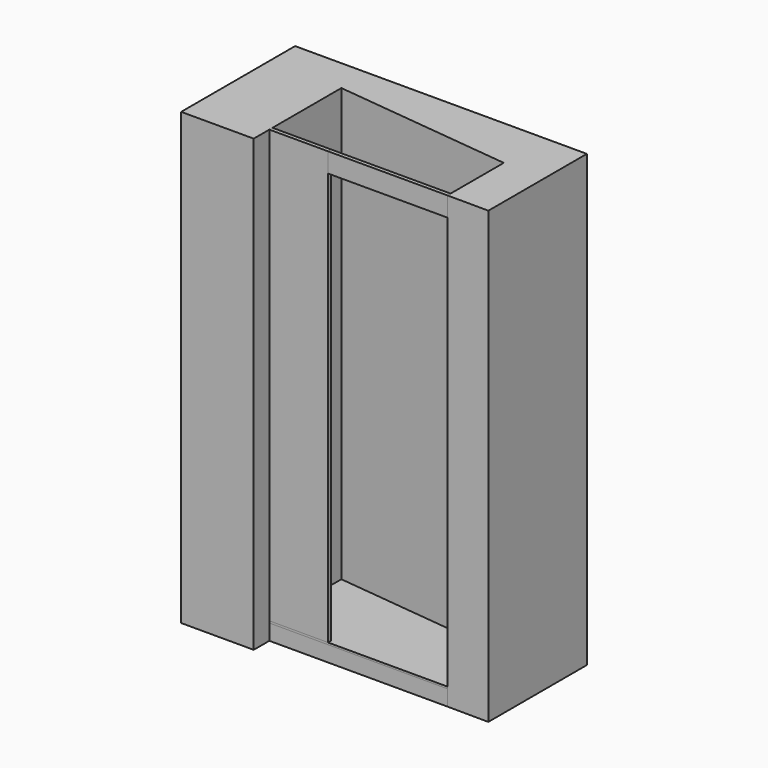
from build123d import *

# Parameters (mm, degrees)
F1_DEPTH = 2300
F2_W     = 910
F2_H     = 20
F3_DEPTH = 80
F5_DEPTH = 10
F6_W     = 300
F6_H     = 20
F7_DEPTH = 2210
F8_W     = 610
F8_H     = 20
F9_DEPTH = 100


with BuildPart() as f1:
    # F0 (on Top) → F1 (new body)
    with BuildSketch(Plane.XY):
        Polygon((-370.7656, 0), (0, 0), (0, 560), (910, 460), (910, 100), (1120.269371, 98.569595), (1120.269371, 727.823936), (-370.7656, 727.823936), align=None)
    extrude(amount=F1_DEPTH)


with BuildPart() as f3:
    # F2 (on Top) → F3 (new body)
    with BuildSketch(Plane.XY):
        with Locations((455, 110)):
            Rectangle(F2_W, F2_H)
    extrude(amount=F3_DEPTH)


with BuildPart() as f5:
    # F4 (on face) → F5 (new body)
    with BuildSketch(Plane.XY.offset(80)):
        Polygon((0, 100), (910, 100), (910, 460), (0, 560), align=None)
    extrude(amount=F5_DEPTH)


with BuildPart() as f7:
    # F6 (on face) → F7 (new body, through all)
    with BuildSketch(Plane.XY.offset(90)):
        with Locations((150, 110)):
            Rectangle(F6_W, F6_H)
    extrude(amount=F7_DEPTH)


with BuildPart() as f9:
    # F8 (on face) → F9 (new body)
    with BuildSketch(Plane.XY.offset(2300)):
        with Locations((605, 110)):
            Rectangle(F8_W, F8_H)
    extrude(amount=-F9_DEPTH)


solid = Compound([f1.part, f3.part, f5.part, f7.part, f9.part])
